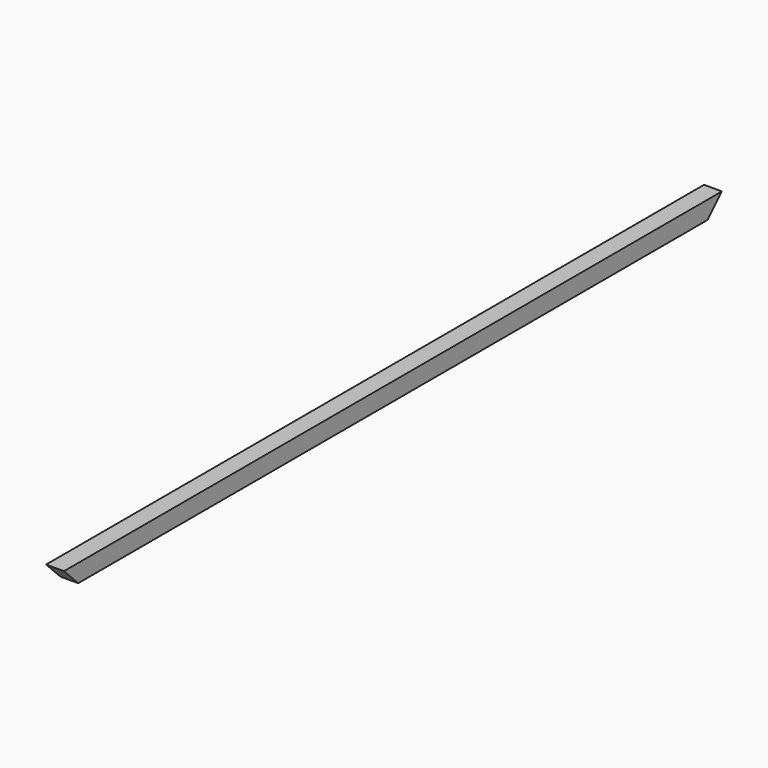
from build123d import *

# Parameters (mm, degrees)
F0_W          = 50
F0_H          = 50
F1_DEPTH      = 2300
F3_DEPTH      = 25.001
F3_DEPTH_BACK = 25.001


with BuildPart() as f1:
    # F0 (on Front) → F1 (new body)
    with BuildSketch(Plane.XZ):
        Rectangle(F0_W, F0_H)
    extrude(amount=F1_DEPTH)

    # F2 (on Right) → F3 (cut, two sides)
    with BuildSketch(Plane.YZ) as f3_sk:
        Polygon((-2300, -25), (-2250, -25), (-2300, 25), align=None)
        Polygon((0, 25), (-50, -25), (0, -25), align=None)
    extrude(amount=-F3_DEPTH, mode=Mode.SUBTRACT)
    extrude(f3_sk.sketch, amount=F3_DEPTH_BACK, mode=Mode.SUBTRACT)


solid = f1.part
